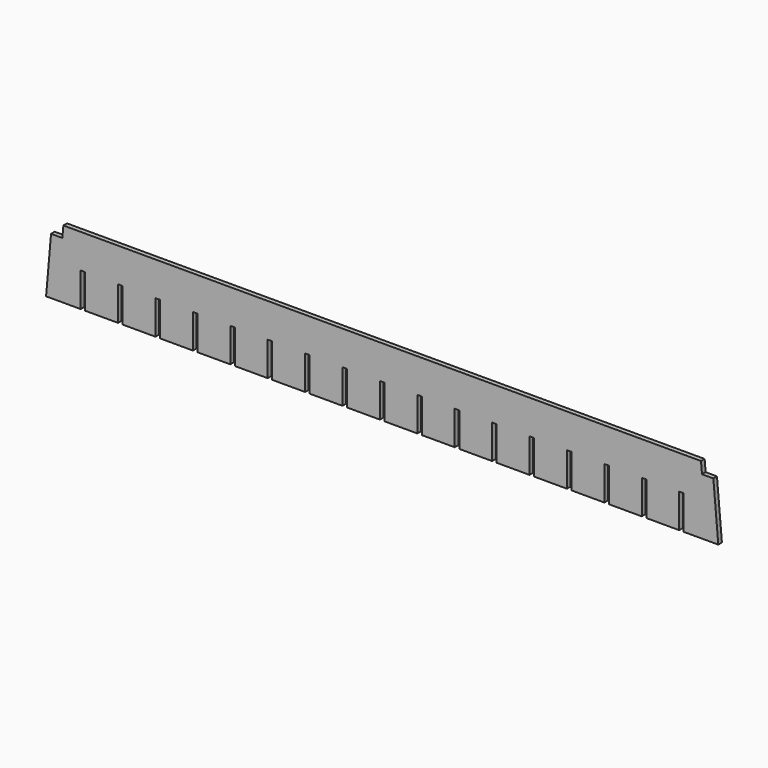
from build123d import *

# Parameters (mm, degrees)
F1_DEPTH = 2


with BuildPart() as f1:
    # F0 (on Front) → F1 (new body)
    with BuildSketch(Plane.XZ):
        Polygon((281.25016, 0), (296.50032, 0), (294.313103, 25), (289.313103, 25), (288.87566, 30), (7.62466, 30), (7.187217, 25), (2.187217, 25), (0, 0), (15.25016, 0), (15.25016, 15), (17.25016, 15), (17.25016, 0), (31.75016, 0), (31.75016, 15), (33.75016, 15), (33.75016, 0), (48.25016, 0), (48.25016, 15), (50.25016, 15), (50.25016, 0), (64.75016, 0), (64.75016, 15), (66.75016, 15), (66.75016, 0), (81.25016, 0), (81.25016, 15), (83.25016, 15), (83.25016, 0), (97.75016, 0), (97.75016, 15), (99.75016, 15), (99.75016, 0), (114.25016, 0), (114.25016, 15), (116.25016, 15), (116.25016, 0), (130.75016, 0), (130.75016, 15), (132.75016, 15), (132.75016, 0), (147.25016, 0), (147.25016, 15), (149.25016, 15), (149.25016, 0), (163.75016, 0), (163.75016, 15), (165.75016, 15), (165.75016, 0), (180.25016, 0), (180.25016, 15), (182.25016, 15), (182.25016, 0), (196.75016, 0), (196.75016, 15), (198.75016, 15), (198.75016, 0), (213.25016, 0), (213.25016, 15), (215.25016, 15), (215.25016, 0), (229.75016, 0), (229.75016, 15), (231.75016, 15), (231.75016, 0), (246.25016, 0), (246.25016, 15), (248.25016, 15), (248.25016, 0), (262.75016, 0), (262.75016, 15), (264.75016, 15), (264.75016, 0), (279.25016, 0), (279.25016, 15), (281.25016, 15), align=None)
    extrude(amount=F1_DEPTH)


solid = f1.part
